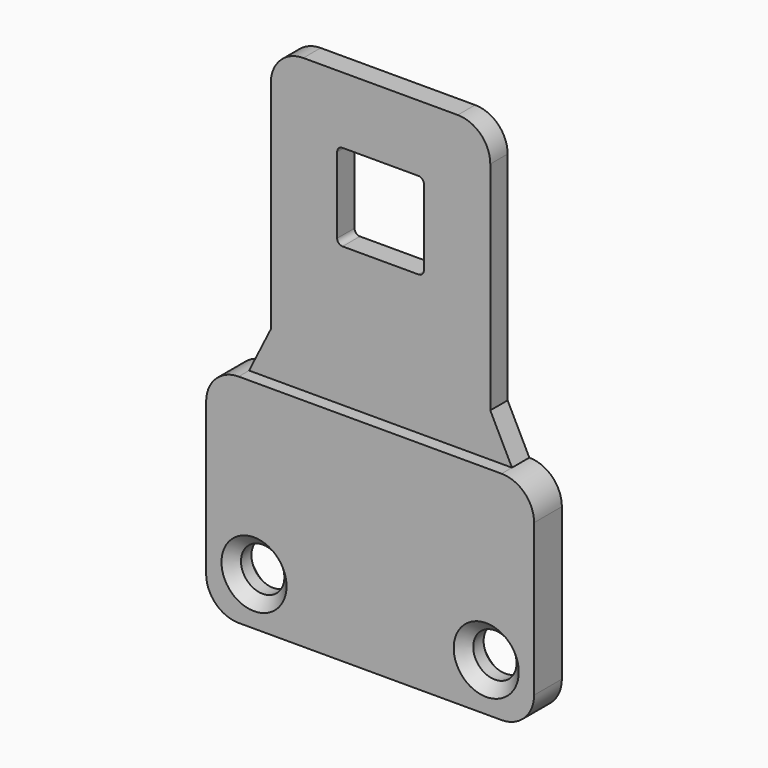
from build123d import *

# Parameters (mm, degrees)
PAD013_DEPTH    = 2
PAD014_DEPTH    = 1.2
SKETCH061_R     = 2
POCKET010_DEPTH = 3.201
CHAMFER009_SIZE = 1


with BuildPart() as part:
    # Sketch034 → Pad013 (new body)
    with BuildSketch(Plane.XZ):
        with BuildLine():
            ThreePointArc((-7.12, 25), (-9.24132, 24.12132), (-10.12, 22))
            Line((-10.12, 22), (-10.12, 2))
            Line((-10.12, 2), (-12.12, -2))
            ThreePointArc((-12.12, -2), (-14.24132, -2.87868), (-15.12, -5))
            Line((-15.12, -5), (-15.12, -19))
            ThreePointArc((-15.12, -19), (-14.24132, -21.12132), (-12.12, -22))
            Line((-12.12, -22), (12.12, -22))
            ThreePointArc((12.12, -22), (14.24132, -21.12132), (15.12, -19))
            Line((15.12, -19), (15.12, -5))
            ThreePointArc((15.12, -5), (14.24132, -2.87868), (12.12, -2))
            Line((10.12, 2), (12.12, -2))
            Line((10.12, 22), (10.12, 2))
            ThreePointArc((10.12, 22), (9.24132, 24.12132), (7.12, 25))
            Line((-7.12, 25), (7.12, 25))
        make_face()
        with BuildLine():
            Line((-3.5, 18.88), (3.5, 18.88))
            ThreePointArc((4, 18.38), (3.853553, 18.733553), (3.5, 18.88))
            Line((4, 18.38), (4, 11.38))
            ThreePointArc((3.5, 10.88), (3.853553, 11.026447), (4, 11.38))
            Line((3.5, 10.88), (-3.5, 10.88))
            ThreePointArc((-4, 11.38), (-3.853553, 11.026447), (-3.5, 10.88))
            Line((-4, 11.38), (-4, 18.38))
            ThreePointArc((-3.5, 18.88), (-3.853553, 18.733553), (-4, 18.38))
        make_face(mode=Mode.SUBTRACT)
    extrude(amount=PAD013_DEPTH)

    # Sketch035 → Pad014 (join)
    with BuildSketch(Plane.XZ.offset(2)):
        with BuildLine():
            ThreePointArc((15.12, -5), (14.24132, -2.87868), (12.12, -2))
            Line((-12.12, -2), (12.12, -2))
            ThreePointArc((-12.12, -2), (-14.24132, -2.87868), (-15.12, -5))
            Line((-15.12, -19), (-15.12, -5))
            ThreePointArc((-15.12, -19), (-14.24132, -21.12132), (-12.12, -22))
            Line((12.12, -22), (-12.12, -22))
            ThreePointArc((12.12, -22), (14.24132, -21.12132), (15.12, -19))
            Line((15.12, -5), (15.12, -19))
        make_face()
    extrude(amount=PAD014_DEPTH)

    # Sketch061 → Pocket010 (cut, through all)
    with BuildSketch(Plane.XZ):
        with Locations((-10.705786, -17.585786)):
            Circle(SKETCH061_R)
        with Locations((10.705786, -17.585786)):
            Circle(SKETCH061_R)
    extrude(amount=POCKET010_DEPTH, mode=Mode.SUBTRACT)

    # Chamfer009
    chamfer009_edges = [part.edges().sort_by_distance(p)[0] for p in [
        (-12.705786, 0, -17.585786),
        (-8.705786, -1.6, -17.585786),
        (-12.705786, -3.2, -17.585786),
        (8.705786, 0, -17.585786),
        (12.705786, -1.6, -17.585786),
        (8.705786, -3.2, -17.585786),
    ]]
    chamfer(chamfer009_edges, length=CHAMFER009_SIZE)


solid = part.part
